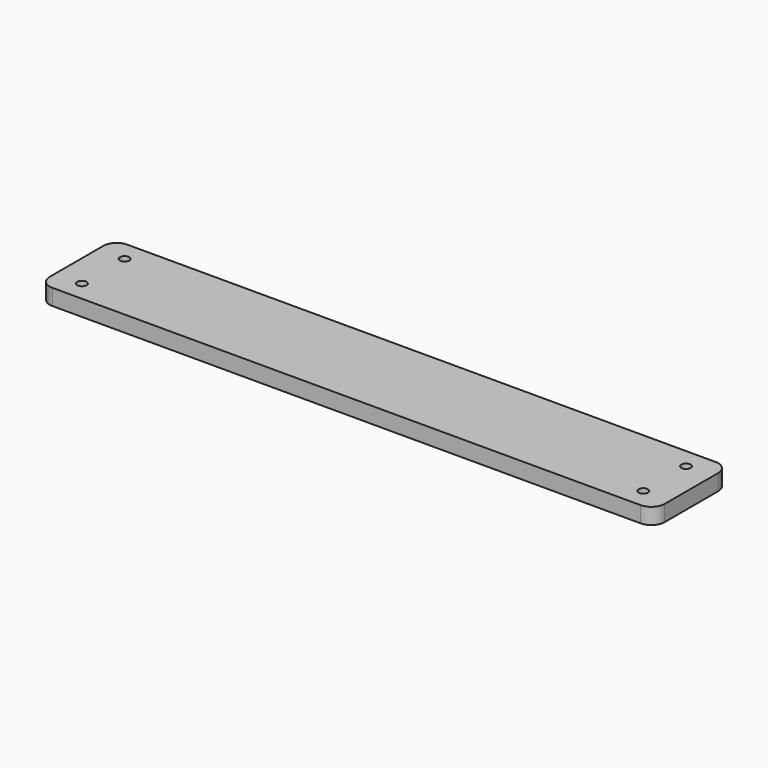
from build123d import *

# Parameters (mm, degrees)
F0_W     = 230
F0_H     = 35
F0_R     = 1.75
F1_DEPTH = 3
F2_R     = 5


with BuildPart() as f1:
    # F0 (on Top) → F1 (new body, symmetric)
    with BuildSketch(Plane.XY):
        Rectangle(F0_W, F0_H)
        with Locations((-105, -10)):
            Circle(F0_R, mode=Mode.SUBTRACT)
        with Locations((105, -10)):
            Circle(F0_R, mode=Mode.SUBTRACT)
        with Locations((-105, 10)):
            Circle(F0_R, mode=Mode.SUBTRACT)
        with Locations((105, 10)):
            Circle(F0_R, mode=Mode.SUBTRACT)
    extrude(amount=F1_DEPTH, both=True)

    # F2
    f2_edges = [f1.edges().sort_by_distance(p)[0] for p in [
        (-115, 17.5, 0),
        (115, 17.5, 0),
        (115, -17.5, 0),
        (-115, -17.5, 0),
    ]]
    fillet(f2_edges, radius=F2_R)


solid = f1.part
